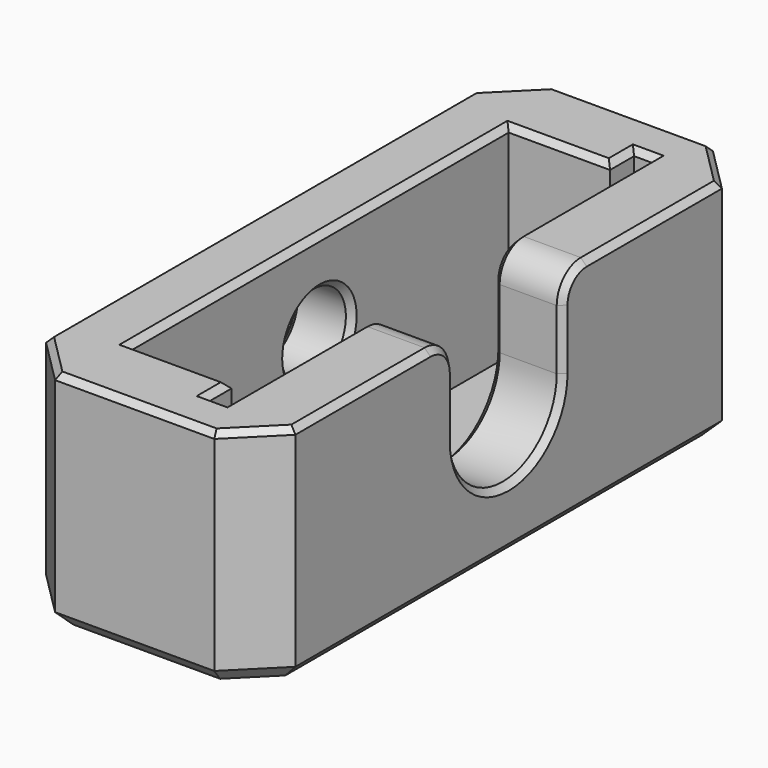
from build123d import *

# Parameters (mm, degrees)
SKETCH_W        = 16.6
SKETCH_H        = 41.5
PAD_DEPTH       = 15
SKETCH001_R     = 2.7
POCKET_DEPTH    = 4
POCKET001_DEPTH = 4.6
FILLET_R        = 2
SKETCH003_W     = 16.6
SKETCH003_H     = 41.5
PAD001_DEPTH    = 1.5
CHAMFER_SIZE    = 3
CHAMFER001_SIZE = 1
CHAMFER002_SIZE = 0.4


with BuildPart() as part:
    # Sketch → Pad (new body)
    with BuildSketch(Plane.XY):
        with Locations((-3.7, 0)):
            Rectangle(SKETCH_W, SKETCH_H)
        Polygon((0, 17.75), (0, -17.75), (-1.25, -17.75), (-1.25, -15.75), (-8, -15.75), (-8, 15.75), (-1.25, 15.75), (-1.25, 17.75), align=None, mode=Mode.SUBTRACT)
    extrude(amount=PAD_DEPTH)

    # Sketch001 (on Face4 of Pad) → Pocket (cut)
    with BuildSketch(Plane(origin=(-12, 0, 0), x_dir=(0, -1, 0), z_dir=(-1, 0, 0))):
        with Locations((0, 9)):
            Circle(SKETCH001_R)
    extrude(amount=-POCKET_DEPTH, mode=Mode.SUBTRACT)

    # Sketch002 (on Face3 of Pocket) → Pocket001 (cut)
    with BuildSketch(Plane.YZ.offset(4.6)):
        with BuildLine():
            ThreePointArc((-4.5, 9), (0, 4.5), (4.5, 9))
            Line((4.5, 15), (4.5, 9))
            Line((-4.5, 15), (4.5, 15))
            Line((-4.5, 9), (-4.5, 15))
        make_face()
    extrude(amount=-POCKET001_DEPTH, mode=Mode.SUBTRACT)

    # Fillet
    fillet_edges = [part.edges().sort_by_distance(p)[0] for p in [
        (2.3, -4.5, 15),
        (2.3, 4.5, 15),
    ]]
    fillet(fillet_edges, radius=FILLET_R)

    # Sketch003 (on Face6 of Fillet) → Pad001 (join)
    with BuildSketch(Plane(origin=(0, 0, 0), x_dir=(1, 0, 0), z_dir=(0, 0, -1))):
        with Locations((-3.7, 0)):
            Rectangle(SKETCH003_W, SKETCH003_H)
    extrude(amount=-PAD001_DEPTH)

    # Chamfer
    chamfer_edges = [part.edges().sort_by_distance(p)[0] for p in [
        (-12, 20.75, 7.5),
        (-12, -20.75, 7.5),
        (4.6, -20.75, 7.5),
        (4.6, 20.75, 7.5),
    ]]
    chamfer(chamfer_edges, length=CHAMFER_SIZE)

    # Chamfer001
    chamfer001_edges = [part.edges().sort_by_distance(p)[0] for p in [
        (-3.7, 20.75, 0),
        (-10.5, 19.25, 0),
        (3.1, 19.25, 0),
        (-12, 0, 0),
        (4.6, 0, 0),
        (-10.5, -19.25, 0),
        (3.1, -19.25, 0),
        (-3.7, -20.75, 0),
    ]]
    chamfer(chamfer001_edges, length=CHAMFER001_SIZE)

    # Chamfer002
    chamfer002_edges = [part.edges().sort_by_distance(p)[0] for p in [
        (-4.625, 15.75, 15),
        (-8, 0, 15),
        (-1.25, 16.75, 15),
        (-0.625, 17.75, 15),
        (0, 12.125, 15),
        (0, 5.085786, 14.414214),
        (0, 4.5, 11),
        (0, 0, 4.5),
        (0, -4.5, 11),
        (0, -5.085786, 14.414214),
        (0, -12.125, 15),
        (-0.625, -17.75, 15),
        (-1.25, -16.75, 15),
        (-4.625, -15.75, 15),
        (-12, 0, 15),
        (-10.5, 19.25, 15),
        (-3.7, 20.75, 15),
        (3.1, 19.25, 15),
        (4.6, 12.125, 15),
        (-10.5, -19.25, 15),
        (-3.7, -20.75, 15),
        (3.1, -19.25, 15),
        (4.6, -12.125, 15),
        (-12, 2.7, 9),
        (4.6, 5.085786, 14.414214),
        (4.6, 4.5, 11),
        (4.6, 0, 4.5),
        (4.6, -4.5, 11),
        (4.6, -5.085786, 14.414214),
        (-8, 2.7, 9),
    ]]
    chamfer(chamfer002_edges, length=CHAMFER002_SIZE)


solid = part.part
